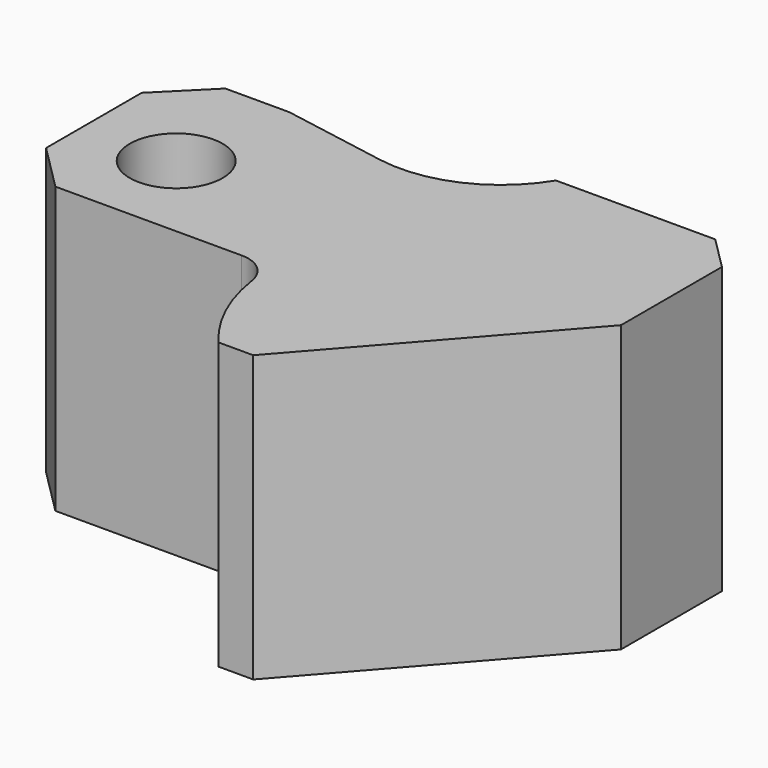
from build123d import *

# Parameters (mm, degrees)
F0_R     = 7
F1_DEPTH = 43


with BuildPart() as f1:
    # F0 (on Top) → F1 (new body)
    with BuildSketch(Plane.XY):
        with BuildLine():
            Line((-20.119661, 7), (-29.75724, 7))
            Line((-29.75724, 7), (-36.75724, 0))
            Line((-36.75724, 0), (-36.75724, -18))
            Line((-36.75724, -18), (-29.75724, -25))
            Line((-29.75724, -25), (-1.690614, -25))
            ThreePointArc((-1.690614, -25), (1.574622, -26.213414), (3.255025, -29.264706))
            ThreePointArc((3.255025, -29.264706), (5.591855, -37.115672), (10.030827, -44))
            Line((10.030827, -44), (15.24276, -44))
            Line((15.24276, -44), (44.24276, -11))
            Line((44.24276, -11), (44.24276, 8))
            Line((44.24276, 8), (39.24276, 13))
            Line((39.24276, 13), (15.24276, 13))
            ThreePointArc((15.24276, 13), (6.845329, 5.594957), (-4.264008, 4.204221))
            Line((-4.264008, 4.204221), (-20.119661, 7))
        make_face()
        with Locations((-22.75724, -11)):
            Circle(F0_R, mode=Mode.SUBTRACT)
    extrude(amount=F1_DEPTH)


solid = f1.part
